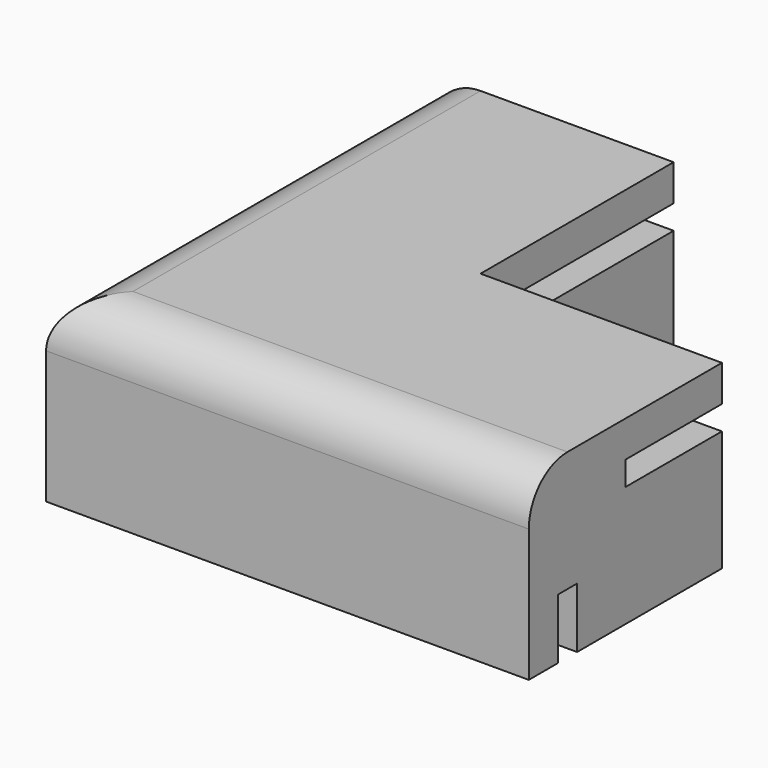
from build123d import *

# Parameters (mm, degrees)
F1_DEPTH = 19.05
F2_W     = 2.54
F2_H     = 6.35
F3_DEPTH = 46.99
F2_W_2   = 12.7
F2_H_2   = 2.54
F4_DEPTH = 38.1
F5_W     = 12.7
F5_H     = 2.54
F6_DEPTH = 38.1
F5_W_2   = 2.54
F5_H_2   = 6.35
F7_DEPTH = 46.736
F8_R     = 5.08


with BuildPart() as f1:
    # F0 (on Top) → F1 (new body)
    with BuildSketch(Plane.XY):
        Polygon((0, 25.4), (0, 0), (25.4, 0), (50.8, 0), (50.8, 25.4), (25.4, 25.4), (25.4, 50.8), (0, 50.8), align=None)
    extrude(amount=F1_DEPTH)

    # F2 (on face) → F3 (cut)
    with BuildSketch(Plane.YZ.offset(50.8)):
        with Locations((5.08, 3.175)):
            Rectangle(F2_W, F2_H)
    extrude(amount=-F3_DEPTH, mode=Mode.SUBTRACT)

    # F2 (on face) → F4 (cut)
    with BuildSketch(Plane.YZ.offset(50.8)):
        with Locations((19.05, 13.97)):
            Rectangle(F2_W_2, F2_H_2)
    extrude(amount=-F4_DEPTH, mode=Mode.SUBTRACT)

    # F5 (on face) → F6 (cut)
    with BuildSketch(Plane(origin=(0, 50.8, 0), x_dir=(-1, 0, 0), z_dir=(0, 1, 0))):
        with Locations((-19.05, 13.97)):
            Rectangle(F5_W, F5_H)
    extrude(amount=-F6_DEPTH, mode=Mode.SUBTRACT)

    # F5 (on face) → F7 (cut)
    with BuildSketch(Plane(origin=(0, 50.8, 0), x_dir=(-1, 0, 0), z_dir=(0, 1, 0))):
        with Locations((-5.08, 3.175)):
            Rectangle(F5_W_2, F5_H_2)
    extrude(amount=-F7_DEPTH, mode=Mode.SUBTRACT)

    # F8
    f8_edges = [f1.edges().sort_by_distance(p)[0] for p in [
        (25.4, 0, 19.05),
        (0, 25.4, 19.05),
    ]]
    fillet(f8_edges, radius=F8_R)


solid = f1.part
